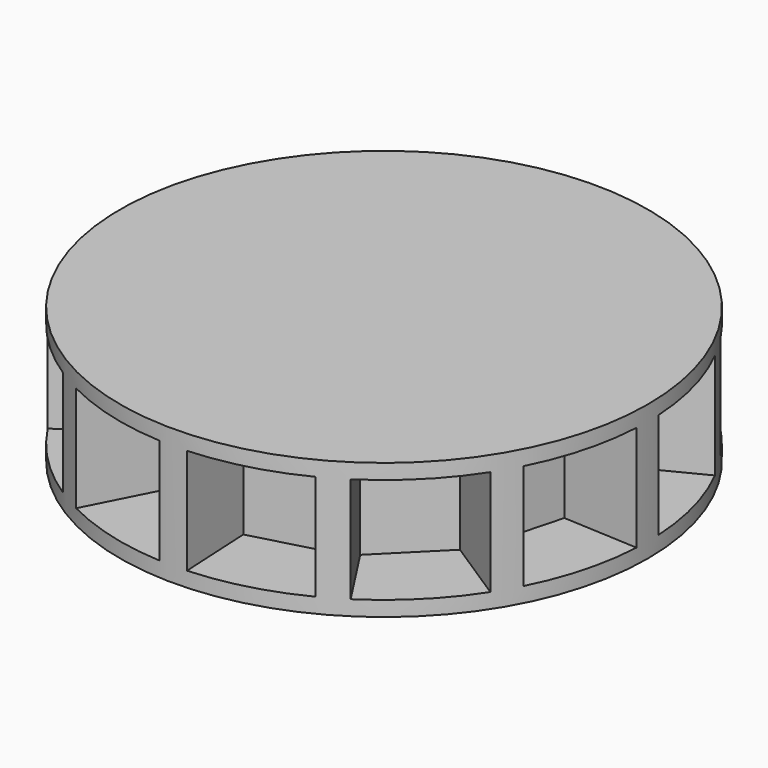
from build123d import *

# Parameters (mm, degrees)
F0_R     = 35
F1_DEPTH = 18
F3_DEPTH = 16
F4_R     = 35
F5_DEPTH = 2


with BuildPart() as f1:
    # F0 (on Top) → F1 (new body)
    with BuildSketch(Plane.XY):
        Circle(F0_R)
    extrude(amount=F1_DEPTH)

    # F2 (on face) → F3 (cut)
    with BuildSketch(Plane(origin=(0, 0, 0), x_dir=(1, 0, 0), z_dir=(0, 0, -1))):
        with BuildLine():
            Line((11.3497624935, 22.2751631047), (15.8896674909, 31.1852283466))
            ThreePointArc((15.8896674909, 31.1852283466), (9.0586665786, 33.8074039201), (1.8317584685, 34.9520337164))
            Line((1.8317584685, 34.9520337164), (1.3083989061, 24.9657383689))
            Line((1.3083989061, 24.9657383689), (11.3497624935, 22.2751631047))
        make_face()
        with BuildLine():
            Line((20.9667641986, 13.6159758754), (29.3534698781, 19.0623662255))
            ThreePointArc((29.3534698781, 19.0623662255), (24.7487373415, 24.7487373415), (19.0623662255, 29.3534698781))
            Line((19.0623662255, 29.3534698781), (13.6159758754, 20.9667641986))
            Line((13.6159758754, 20.9667641986), (20.9667641986, 13.6159758754))
        make_face()
        with BuildLine():
            Line((24.9657383689, 1.3083989061), (34.9520337164, 1.8317584685))
            ThreePointArc((34.9520337164, 1.8317584685), (33.8074039201, 9.0586665786), (31.1852283466, 15.8896674909))
            Line((31.1852283466, 15.8896674909), (22.2751631047, 11.3497624935))
            Line((22.2751631047, 11.3497624935), (24.9657383689, 1.3083989061))
        make_face()
        with BuildLine():
            ThreePointArc((-31.1852283466, 15.8896674909), (-33.8074039201, 9.0586665786), (-34.9520337164, 1.8317584685))
            Line((-34.9520337164, 1.8317584685), (-24.9657383689, 1.3083989061))
            Line((-24.9657383689, 1.3083989061), (-22.2751631047, 11.3497624935))
            Line((-22.2751631047, 11.3497624935), (-31.1852283466, 15.8896674909))
        make_face()
        with BuildLine():
            ThreePointArc((-19.0623662255, 29.3534698781), (-24.7487373415, 24.7487373415), (-29.3534698781, 19.0623662255))
            Line((-29.3534698781, 19.0623662255), (-20.9667641986, 13.6159758754))
            Line((-20.9667641986, 13.6159758754), (-13.6159758754, 20.9667641986))
            Line((-13.6159758754, 20.9667641986), (-19.0623662255, 29.3534698781))
        make_face()
        with BuildLine():
            ThreePointArc((-1.8317584685, 34.9520337164), (-9.0586665786, 33.8074039201), (-15.8896674909, 31.1852283466))
            Line((-15.8896674909, 31.1852283466), (-11.3497624935, 22.2751631047))
            Line((-11.3497624935, 22.2751631047), (-1.3083989061, 24.9657383689))
            Line((-1.3083989061, 24.9657383689), (-1.8317584685, 34.9520337164))
        make_face()
        with BuildLine():
            ThreePointArc((-15.8896674909, -31.1852283466), (-9.0586665786, -33.8074039201), (-1.8317584685, -34.9520337164))
            Line((-1.8317584685, -34.9520337164), (-1.3083989061, -24.9657383689))
            Line((-1.3083989061, -24.9657383689), (-11.3497624935, -22.2751631047))
            Line((-11.3497624935, -22.2751631047), (-15.8896674909, -31.1852283466))
        make_face()
        with BuildLine():
            ThreePointArc((-29.3534698781, -19.0623662255), (-24.7487373415, -24.7487373415), (-19.0623662255, -29.3534698781))
            Line((-19.0623662255, -29.3534698781), (-13.6159758754, -20.9667641986))
            Line((-13.6159758754, -20.9667641986), (-20.9667641986, -13.6159758754))
            Line((-20.9667641986, -13.6159758754), (-29.3534698781, -19.0623662255))
        make_face()
        with BuildLine():
            ThreePointArc((-34.9520337164, -1.8317584685), (-33.8074039201, -9.0586665786), (-31.1852283466, -15.8896674909))
            Line((-31.1852283466, -15.8896674909), (-22.2751631047, -11.3497624935))
            Line((-22.2751631047, -11.3497624935), (-24.9657383689, -1.3083989061))
            Line((-24.9657383689, -1.3083989061), (-34.9520337164, -1.8317584685))
        make_face()
        with BuildLine():
            ThreePointArc((31.1852283466, -15.8896674909), (33.8074039201, -9.0586665786), (34.9520337164, -1.8317584685))
            Line((34.9520337164, -1.8317584685), (24.9657383689, -1.3083989061))
            Line((24.9657383689, -1.3083989061), (22.2751631047, -11.3497624935))
            Line((22.2751631047, -11.3497624935), (31.1852283466, -15.8896674909))
        make_face()
        with BuildLine():
            ThreePointArc((19.0623662255, -29.3534698781), (24.7487373415, -24.7487373415), (29.3534698781, -19.0623662255))
            Line((29.3534698781, -19.0623662255), (20.9667641986, -13.6159758754))
            Line((20.9667641986, -13.6159758754), (13.6159758754, -20.9667641986))
            Line((13.6159758754, -20.9667641986), (19.0623662255, -29.3534698781))
        make_face()
        with BuildLine():
            ThreePointArc((1.8317584685, -34.9520337164), (9.0586665786, -33.8074039201), (15.8896674909, -31.1852283466))
            Line((15.8896674909, -31.1852283466), (11.3497624935, -22.2751631047))
            Line((11.3497624935, -22.2751631047), (1.3083989061, -24.9657383689))
            Line((1.3083989061, -24.9657383689), (1.8317584685, -34.9520337164))
        make_face()
    extrude(amount=-F3_DEPTH, mode=Mode.SUBTRACT)

    # F4 (on face) → F5 (join)
    with BuildSketch(Plane(origin=(0, 0, 0), x_dir=(1, 0, 0), z_dir=(0, 0, -1))):
        Circle(F4_R)
    extrude(amount=-F5_DEPTH)


solid = f1.part
